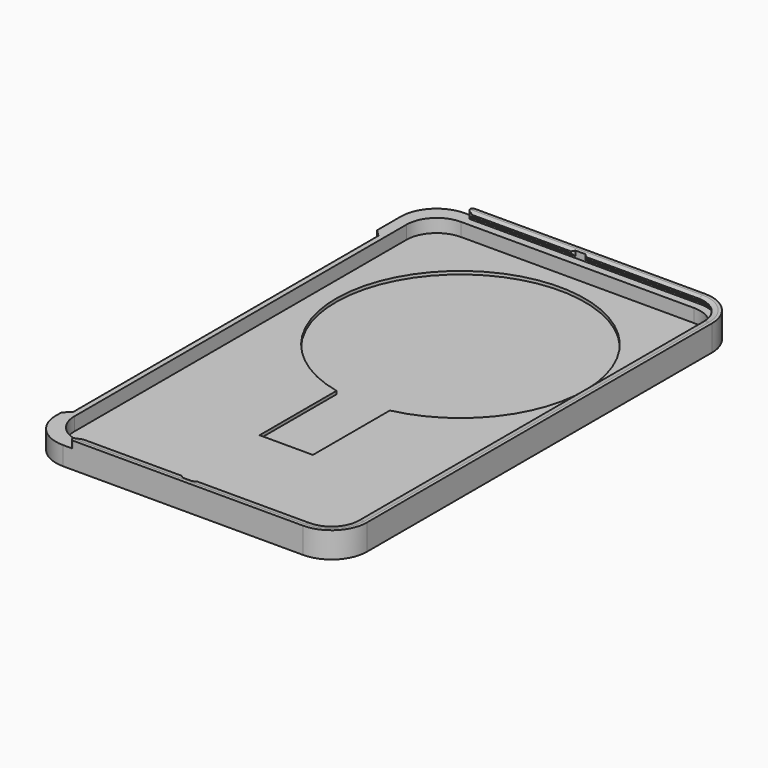
from build123d import *

# Parameters (mm, degrees)
PAD_DEPTH       = 1.6
PAD_DEPTH_BACK  = 4.2
POCKET001_DEPTH = 3
POCKET002_DEPTH = 10
POCKET003_DEPTH = 3.7
POCKET_DEPTH    = 5


with BuildPart() as part:
    # Sketch → Pad (new body, two sides)
    with BuildSketch(Plane.XY) as pad_sk:
        with BuildLine():
            ThreePointArc((-6, 2), (-3.656854, -3.656854), (2, -6))
            Line((56, -6), (2, -6))
            ThreePointArc((56, -6), (61.656854, -3.656854), (64, 2))
            Line((64, 99), (64, 2))
            ThreePointArc((64, 99), (61.656854, 104.656854), (56, 107))
            Line((2, 107), (56, 107))
            ThreePointArc((2, 107), (-3.656854, 104.656854), (-6, 99))
            Line((-6, 92.3), (-6, 99))
            Line((-6, 92.3), (-4.5, 90.8))
            Line((-4.5, 90.8), (-4.5, 5))
            Line((-6, 3.5), (-4.5, 5))
            Line((-6, 2), (-6, 3.5))
        make_face()
    extrude(amount=PAD_DEPTH)
    extrude(pad_sk.sketch, amount=-PAD_DEPTH_BACK)

    # Sketch002 → Pocket001 (cut)
    with BuildSketch(Plane.XY):
        with BuildLine():
            ThreePointArc((3.5, 104), (-1.308326, 102.008326), (-3.3, 97.2))
            Line((-3.3, 3.8), (-3.3, 97.2))
            ThreePointArc((-3.3, 3.8), (-1.308326, -1.008326), (3.5, -3))
            Line((56, -3), (3.5, -3))
            ThreePointArc((56, -3), (60.808326, -1.008326), (62.8, 3.8))
            Line((62.8, 97.2), (62.8, 3.8))
            ThreePointArc((62.8, 97.2), (60.808326, 102.008326), (56, 104))
            Line((3.5, 104), (56, 104))
        make_face()
    extrude(amount=-POCKET001_DEPTH, mode=Mode.SUBTRACT)

    # Sketch003 → Pocket002 (cut)
    with BuildSketch(Plane.XY):
        Polygon((24.9, -1.8), (24.9, 102.8), (27.9, 105.8), (30.1, 105.8), (33.1, 102.8), (33.1, -1.8), (30.1, -4.8), (27.9, -4.8), align=None)
        with BuildLine():
            Line((3.93923, 105.880385), (5.117691, 105.2))
            Line((5.117691, 105.2), (-11.76077, 105.2))
            Line((-11.76077, 107), (-11.76077, 105.2))
            Line((4.23923, 107), (-11.76077, 107))
            ThreePointArc((4.23923, 107), (3.659675, 106.555291), (3.93923, 105.880385))
        make_face()
        with BuildLine():
            Line((3.93923, -4.880385), (5.117691, -4.2))
            Line((5.117691, -4.2), (-11.76077, -4.2))
            Line((-11.76077, -4.2), (-11.76077, -6))
            Line((-11.76077, -6), (4.23923, -6))
            ThreePointArc((3.93923, -4.880385), (3.659675, -5.555291), (4.23923, -6))
        make_face()
    extrude(amount=POCKET002_DEPTH, mode=Mode.SUBTRACT)

    # Sketch004 → Pocket003 (cut)
    with BuildSketch(Plane.XY):
        with BuildLine():
            ThreePointArc((35, 44.650411), (29, 100), (23, 44.650411))
            Line((23, 23), (23, 44.650411))
            Line((35, 23), (23, 23))
            Line((35, 44.650411), (35, 23))
        make_face()
    extrude(amount=-POCKET003_DEPTH, mode=Mode.SUBTRACT)

    # SubtractivePipe: sweep along a path in Sketch005
    with BuildLine(Plane.XY) as subtractivepipe_path:
        Line((-6, -6), (56, -6))
        ThreePointArc((56, -6), (61.656854, -3.656854), (64, 2))
        Line((64, 2), (64, 99))
        ThreePointArc((64, 99), (61.656854, 104.656854), (56, 107))
        Line((56, 107), (-6, 107))
    # Sketch001 → SubtractivePipe (sweep, cut)
    with BuildSketch(Plane.YZ):
        Polygon((-4.8, 0), (-4.8, 0.4), (-4.2, 1), (-4.2, 1.4), (-5.334256, 1.6), (-3.334256, 1.6), (-3.334256, 0), align=None)
    sweep(path=subtractivepipe_path.line, mode=Mode.SUBTRACT)

    # Sketch006 → Pocket (cut)
    with BuildSketch(Plane.XY):
        with BuildLine():
            Line((-6, -4), (56, -4))
            ThreePointArc((56, -4), (60.242641, -2.242641), (62, 2))
            Line((62, 2), (62, 99))
            ThreePointArc((62, 99), (60.242641, 103.242641), (56, 105))
            Line((56, 105), (-6, 105))
            Line((-6, 105), (-6, -4))
        make_face()
    extrude(amount=POCKET_DEPTH, mode=Mode.SUBTRACT)


solid = part.part
